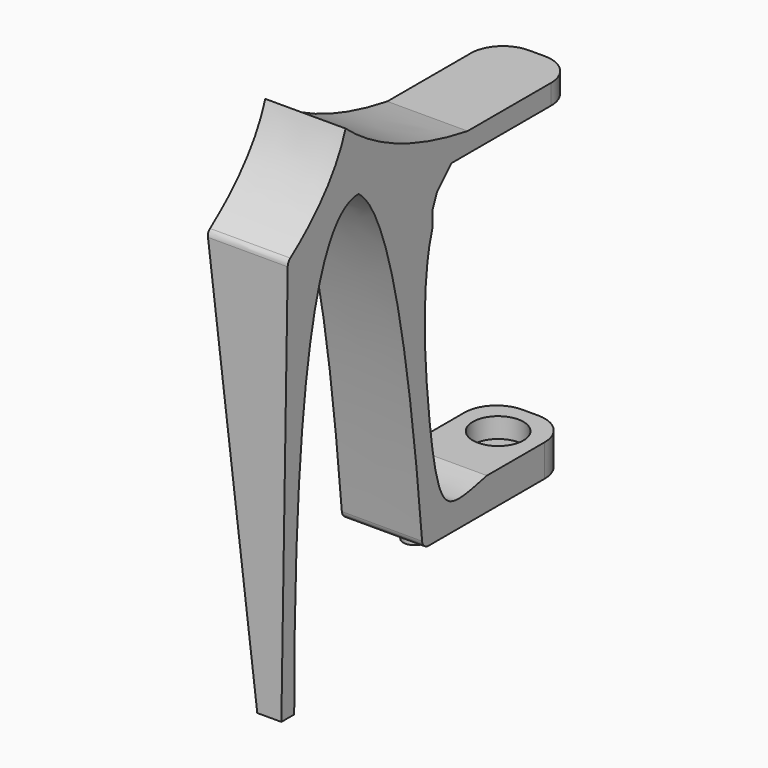
from build123d import *

# Parameters (mm, degrees)
CYLINDER129_R                     = 3.15
CYLINDER129_DEPTH                 = 10
CYLINDER131_R                     = 0.6
CYLINDER131_DEPTH                 = 20
BOX076_W                          = 12
BOX076_H                          = 23
BOX076_DEPTH                      = 10
CHAMFER015_SIZE                   = 3
CHAMFER014_SIZE                   = 1
CYLINDER130_R                     = 3.15
CYLINDER130_DEPTH                 = 10
PAD011_DEPTH                      = 10
CHAMFER016_SIZE2                  = 50
CHAMFER016_SIZE                   = 7
FILLET074_R                       = 1
FILLET072_R                       = 1
FILLET071_R                       = 4
CYLINDER132_R                     = 1.4
CYLINDER132_DEPTH                 = 2.5
FILLET073_R                       = 4
PART_MIRRORING002_PLACEMENT_ANGLE = 180


with BuildPart() as zylinder129:
    # Cylinder129 → Cylinder129 (new body)
    with BuildSketch(Plane(origin=(-52.5, 10, -1), x_dir=(1, 0, 0), z_dir=(0, 0, 1))):
        Circle(CYLINDER129_R)
    extrude(amount=CYLINDER129_DEPTH)


with BuildPart() as zylinder131:
    # Cylinder131 → Cylinder131 (new body)
    with BuildSketch(Plane(origin=(-52.5, 23, -38.5), x_dir=(1, 0, 0), z_dir=(0, 0, 1))):
        Circle(CYLINDER131_R)
    extrude(amount=CYLINDER131_DEPTH)


with BuildPart() as chamfer014:
    # Box076 → Box076 (new body)
    with BuildSketch(Plane(origin=(-58.5, 3.5, -2.5), x_dir=(1, 0, 0), z_dir=(0, 0, 1))):
        with Locations((6, 11.5)):
            Rectangle(BOX076_W, BOX076_H)
    extrude(amount=BOX076_DEPTH)

    # Chamfer015
    chamfer015_edges = [chamfer014.edges().sort_by_distance(p)[0] for p in [
        (-52.5, 26.5, 7.5),
    ]]
    chamfer(chamfer015_edges, length=CHAMFER015_SIZE)

    # Chamfer014
    chamfer014_edges = [chamfer014.edges().sort_by_distance(p)[0] for p in [
        (-52.5, 26.5, 4.5),
    ]]
    chamfer(chamfer014_edges, length=CHAMFER014_SIZE)


with BuildPart() as fusion086:
    # Cylinder130 → Cylinder130 (new body)
    with BuildSketch(Plane(origin=(-52.5, 10, -31.5), x_dir=(1, 0, 0), z_dir=(0, 0, 1))):
        Circle(CYLINDER130_R)
    extrude(amount=CYLINDER130_DEPTH)

    # Fusion086: union Zylinder129, Zylinder131, Chamfer014
    add(zylinder129.part)
    add(zylinder131.part)
    add(chamfer014.part)


with BuildPart() as fillet071:
    # Sketch011 → Pad011 (new body)
    with BuildSketch(Plane.YZ):
        with BuildLine():
            Line((16, 4), (4, 4))
            Line((4, 4), (4, 10))
            Line((4, 10), (21, 10))
            add(Edge.make_bspline(
                [(21, 10), (33, 12), (40, 18)],
                knots=[0, 0, 0, 1, 1, 1], degree=2))
            add(Edge.make_bspline(
                [(40, 18), (42, 12), (49, 7)],
                knots=[0, 0, 0, 1, 1, 1], degree=2))
            add(Edge.make_bspline(
                [(49, 7), (50, -43)],
                knots=[0, 0, 1, 1], degree=1))
            Line((50, -43), (48, -43))
            add(Edge.make_bspline(
                [(48, -43), (48, 10), (38, 10)],
                knots=[0, 0, 0, 1, 1, 1], degree=2))
            add(Edge.make_bspline(
                [(28, -33), (31.54521, 5.416211), (38, 10)],
                knots=[0, 0, 0, 1, 1, 1], degree=2))
            Line((28, -33), (5, -33))
            Line((5, -33), (5, -29))
            Line((5, -29), (18, -29))
            add(Edge.make_bspline(
                [(21, 6), (25.7922, 6), (28.2733, -3.63721), (27.206068, -18.457365), (25.411083, -30.376215), (22.292137, -30), (18, -29)],
                knots=[0, 0, 0, 0, 0.25, 0.5, 0.75, 1, 1, 1, 1], degree=3))
            Line((21, 6), (16, 4))
        make_face()
    extrude(amount=PAD011_DEPTH)

    # Chamfer016
    chamfer016_edges = [fillet071.edges().sort_by_distance(p)[0] for p in [
        (0, 49, -43),
    ]]
    chamfer016_side = fillet071.faces().sort_by_distance((5, 49, -43))[0]
    chamfer(chamfer016_edges, length=CHAMFER016_SIZE, length2=CHAMFER016_SIZE2, reference=chamfer016_side)


with BuildPart() as fillet071_1:
    # Chamfer016 placement: moved
    add(fillet071.part.moved(Location((11.5, 0, 0))))

    # Fillet074
    fillet074_edges = [fillet071_1.edges().sort_by_distance(p)[0] for p in [
        (16.5, 49, 7),
    ]]
    fillet(fillet074_edges, radius=FILLET074_R)

    # Fillet072
    fillet072_edges = [fillet071_1.edges().sort_by_distance(p)[0] for p in [
        (16.5, 28, -33),
    ]]
    fillet(fillet072_edges, radius=FILLET072_R)

    # Fillet071
    fillet071_edges = [fillet071_1.edges().sort_by_distance(p)[0] for p in [
        (21.5, 4, 7),
        (11.5, 4, 7),
    ]]
    fillet(fillet071_edges, radius=FILLET071_R)


with BuildPart() as fillet073:
    # Cylinder132 → Cylinder132 (new body)
    with BuildSketch(Plane(origin=(16.5, 23, -35.5), x_dir=(1, 0, 0), z_dir=(0, 0, 1))):
        Circle(CYLINDER132_R)
    extrude(amount=CYLINDER132_DEPTH)

    # Fusion085: union Fillet071
    add(fillet071_1.part)


with BuildPart() as fillet073_1:
    # Fusion085 placement: moved
    add(fillet073.part.moved(Location((-69, 0, 0))))

    # Cut064: cut Fusion086
    add(fusion086.part, mode=Mode.SUBTRACT)

    # Fillet073
    fillet073_edges = [fillet073_1.edges().sort_by_distance(p)[0] for p in [
        (-47.5, 5, -31),
        (-57.5, 5, -31),
    ]]
    fillet(fillet073_edges, radius=FILLET073_R)


with BuildPart() as part_mirroring002:
    # Part__Mirroring002: instance of Fillet073
    add(fillet073_1.part.mirror(Plane(origin=(0, 0, 0), x_dir=(0, 1, 0), z_dir=(0, 0, 1))))


with BuildPart() as part_mirroring002_1:
    # Part__Mirroring002 placement: moved
    add(part_mirroring002.part.rotate(Axis((0, 0, 0), (1, 0, 0)), PART_MIRRORING002_PLACEMENT_ANGLE))


solid = part_mirroring002_1.part
